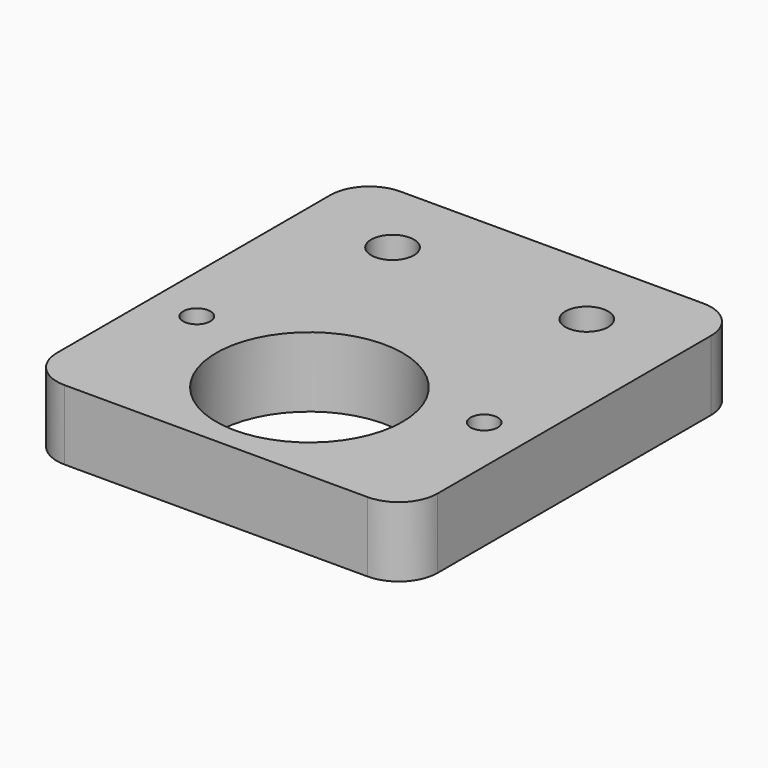
from build123d import *

# Parameters (mm, degrees)
F0_R     = 1.75
F0_R_2   = 12
F0_R_3   = 2.75
F1_DEPTH = 9


with BuildPart() as f1:
    # F0 (on Top) → F1 (new body)
    with BuildSketch(Plane.XY):
        with BuildLine():
            Line((19.5, 39), (-19.5, 39))
            ThreePointArc((-19.5, 39), (-23.035534, 37.535534), (-24.5, 34))
            Line((-24.5, 34), (-24.5, -10))
            ThreePointArc((-24.5, -10), (-23.035534, -13.535534), (-19.5, -15))
            Line((-19.5, -15), (19.5, -15))
            ThreePointArc((19.5, -15), (23.035534, -13.535534), (24.5, -10))
            Line((24.5, -10), (24.5, 34))
            ThreePointArc((24.5, 34), (23.035534, 37.535534), (19.5, 39))
        make_face()
        with Locations((-18.5, 5)):
            Circle(F0_R, mode=Mode.SUBTRACT)
        Circle(F0_R_2, mode=Mode.SUBTRACT)
        with Locations((18.5, 5)):
            Circle(F0_R, mode=Mode.SUBTRACT)
        with Locations((-12.5, 29)):
            Circle(F0_R_3, mode=Mode.SUBTRACT)
        with Locations((12.5, 29)):
            Circle(F0_R_3, mode=Mode.SUBTRACT)
    extrude(amount=F1_DEPTH)


solid = f1.part
